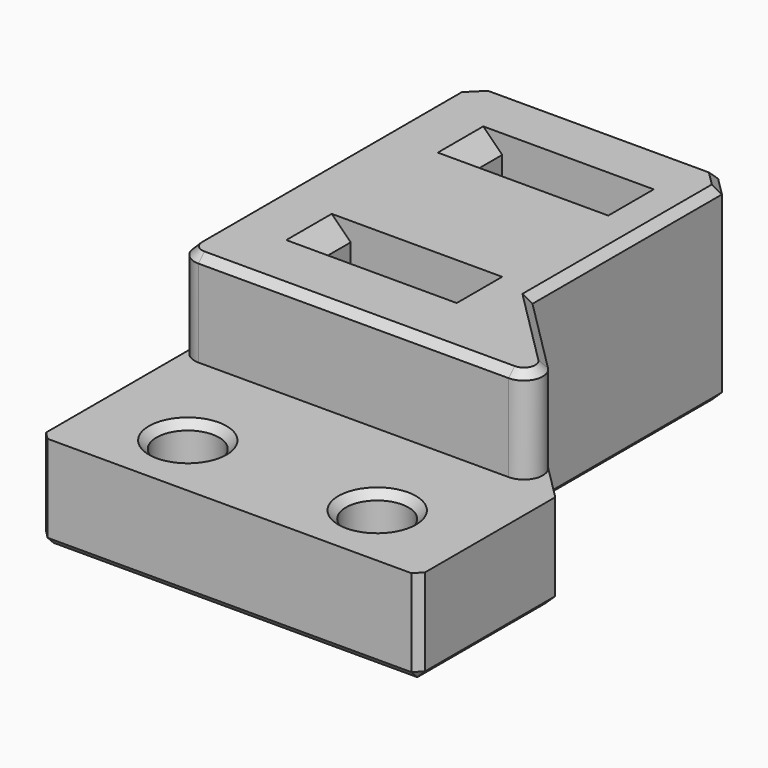
from build123d import *

# Parameters (mm, degrees)
SKETCH041_R     = 1.65
PAD008_DEPTH    = 10
SKETCH042_W     = 7
SKETCH042_H     = 3
POCKET028_DEPTH = 10.001
CHAMFER014_SIZE = 1
SKETCH043_W     = 20
SKETCH043_H     = 9.2
POCKET029_DEPTH = 5
FILLET004_R     = 1
CHAMFER015_SIZE = 0.4


with BuildPart() as part:
    # Sketch041 → Pad008 (new body)
    with BuildSketch(Plane.XY):
        Polygon((-10, -3.5), (10, -3.5), (10, 5.5), (4, 11.5), (4, 25), (-10, 25), align=None)
        with Locations((-5, 0)):
            Circle(SKETCH041_R, mode=Mode.SUBTRACT)
        with Locations((5, 0)):
            Circle(SKETCH041_R, mode=Mode.SUBTRACT)
    extrude(amount=PAD008_DEPTH)

    # Sketch042 (on Face10 of Pad008) → Pocket028 (cut, through all)
    with BuildSketch(Plane.XY.offset(10)):
        with Locations((-2.5, 20.5)):
            Rectangle(SKETCH042_W, SKETCH042_H)
        with Locations((-2.5, 10.5)):
            Rectangle(SKETCH042_W, SKETCH042_H)
    extrude(amount=-POCKET028_DEPTH, mode=Mode.SUBTRACT)

    # Chamfer014
    chamfer014_edges = [part.edges().sort_by_distance(p)[0] for p in [
        (-10, 25, 5),
        (4, 25, 5),
        (-6, 20.5, 10),
        (-6, 10.5, 10),
        (1, 10.5, 10),
        (1, 20.5, 10),
        (-6, 20.5, 0),
        (1, 20.5, 0),
        (-6, 10.5, 0),
        (1, 10.5, 0),
    ]]
    chamfer(chamfer014_edges, length=CHAMFER014_SIZE)

    # Sketch043 (on Face5 of Chamfer014) → Pocket029 (cut)
    with BuildSketch(Plane.XY.offset(10)):
        with Locations((0, 1.1)):
            Rectangle(SKETCH043_W, SKETCH043_H)
    extrude(amount=-POCKET029_DEPTH, mode=Mode.SUBTRACT)

    # Fillet004
    fillet004_edges = [part.edges().sort_by_distance(p)[0] for p in [
        (9.8, 5.7, 7.5),
        (-10, 5.7, 7.5),
    ]]
    fillet(fillet004_edges, radius=FILLET004_R)

    # Chamfer015
    chamfer015_edges = [part.edges().sort_by_distance(p)[0] for p in [
        (-10, 10.25, 0),
        (-9.5, 24.5, 0),
        (-3, 25, 0),
        (3.5, 24.5, 0),
        (4, 17.75, 0),
        (7, 8.5, 0),
        (10, 1, 0),
        (3.35, 0, 0),
        (-6.65, 0, 0),
        (0, -3.5, 0),
        (-10, -3.5, 2.5),
        (10, -3.5, 2.5),
        (8.309666, 6.317317, 10),
        (-0.807107, 5.7, 10),
        (-9.707107, 5.992893, 10),
        (-10, 15.35, 10),
        (-9.5, 24.5, 10),
        (-3, 25, 10),
        (3.5, 24.5, 10),
        (4, 17.75, 10),
        (6.046447, 9.453553, 10),
        (-6.65, 0, 5),
        (3.35, 0, 5),
    ]]
    chamfer(chamfer015_edges, length=CHAMFER015_SIZE)


solid = part.part
